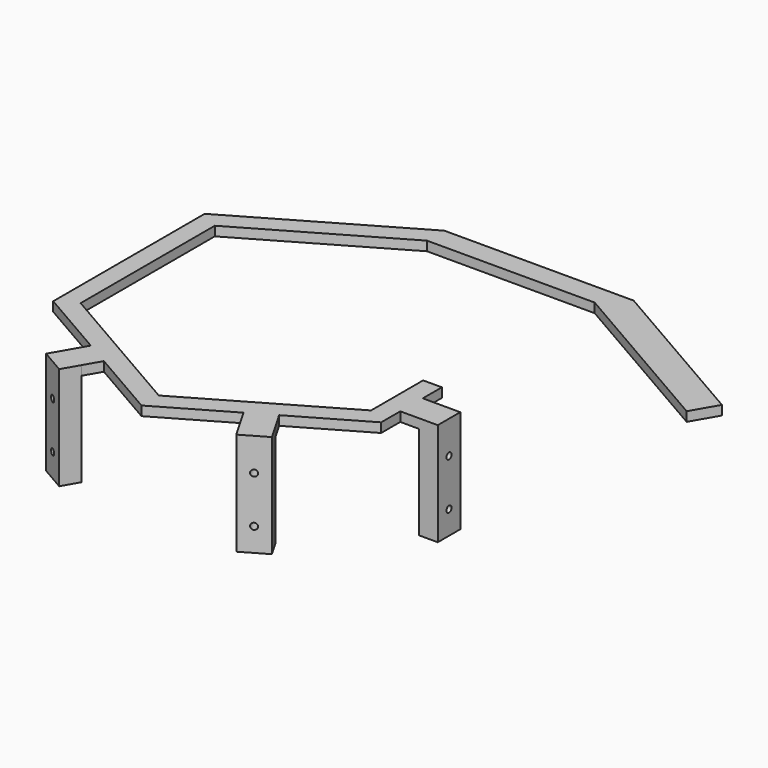
from build123d import *

# Parameters (mm, degrees)
PAD_DEPTH      = 5
SKETCH001_W    = 15
SKETCH001_H    = 5
PAD001_DEPTH   = 10
SKETCH002_W    = 15
SKETCH002_H    = 5
PAD002_DEPTH   = 10
SKETCH003_W    = 15
SKETCH003_H    = 5
PAD003_DEPTH   = 10
SKETCH004_W    = 15
SKETCH004_H    = 55
PAD004_DEPTH   = 10
SKETCH005_R    = 1.7
HOLE_DEPTH     = 25
HOLE_TIPS_R    = 1.7
SKETCH006_W    = 15
SKETCH006_H    = 55
PAD005_DEPTH   = 10
SKETCH007_R    = 1.7
HOLE001_DEPTH  = 25
HOLE001_TIPS_R = 1.7
SKETCH008_W    = 15
SKETCH008_H    = 55
PAD006_DEPTH   = 10
SKETCH009_R    = 1.7
HOLE002_DEPTH  = 25
HOLE002_TIPS_R = 1.7


with BuildPart() as part:
    # Sketch → Pad (new body)
    with BuildSketch(Plane.XY):
        Polygon((77.465972, -44.725), (77.465972, -9.995), (87.465972, -9.995), (87.465972, -50.494492), (0, -100.995), (-87.465972, -50.494492), (-87.465972, 50.494492), (0, 100.995), (100.998008, 100.995), (188.464849, 50.495996), (180.578715, 36.836812), (89.45, 89.45), (0, 89.45), (-77.465972, 44.725), (-77.465972, -44.725), (0, -89.45), align=None)
    extrude(amount=PAD_DEPTH)

    # Sketch001 (on Face12 of Pad) → Pad001 (join)
    with BuildSketch(Plane.YZ.offset(87.465972)):
        with Locations((-30.244746, 2.5)):
            Rectangle(SKETCH001_W, SKETCH001_H)
    extrude(amount=PAD001_DEPTH)

    # Sketch002 (on Face19 of Pad001) → Pad002 (join)
    with BuildSketch(Plane(origin=(43.732986, -75.744746, 0), x_dir=(0.866017, 0.500015, 0), z_dir=(0.500015, -0.866017, 0))):
        with Locations((0, 2.5)):
            Rectangle(SKETCH002_W, SKETCH002_H)
    extrude(amount=PAD002_DEPTH)

    # Sketch003 (on Face22 of Pad002) → Pad003 (join)
    with BuildSketch(Plane(origin=(-43.732986, -75.744746, 0), x_dir=(0.866017, -0.500015, 0), z_dir=(-0.500015, -0.866017, 0))):
        with Locations((0, 2.5)):
            Rectangle(SKETCH003_W, SKETCH003_H)
    extrude(amount=PAD003_DEPTH)

    # Sketch004 (on Face30 of Pad003) → Pad004 (join)
    with BuildSketch(Plane.YZ.offset(97.465972)):
        with Locations((-30.244746, -22.5)):
            Rectangle(SKETCH004_W, SKETCH004_H)
    extrude(amount=PAD004_DEPTH)

    # Sketch005 (on Face41 of Pad004) → Hole (cut)
    with BuildSketch(Plane.YZ.offset(107.465972)):
        with Locations((-30.244746, -37.5)):
            Circle(SKETCH005_R)
        with Locations((-30.244746, -12.5)):
            Circle(SKETCH005_R)
    extrude(amount=-HOLE_DEPTH, mode=Mode.SUBTRACT)

    # Hole tips → Hole tip 1 section 0
    with BuildSketch(Plane.YZ.offset(82.465972), mode=Mode.PRIVATE) as hole_tip_1_s0:
        with Locations((-30.244746, -37.5)):
            Circle(HOLE_TIPS_R)
    loft([hole_tip_1_s0.sketch, Vertex(81.444509, -30.244746, -37.5)], mode=Mode.SUBTRACT)

    # Hole tips → Hole tip 2 section 0
    with BuildSketch(Plane.YZ.offset(82.465972), mode=Mode.PRIVATE) as hole_tip_2_s0:
        with Locations((-30.244746, -12.5)):
            Circle(HOLE_TIPS_R)
    loft([hole_tip_2_s0.sketch, Vertex(81.444509, -30.244746, -12.5)], mode=Mode.SUBTRACT)

    # Sketch006 (on Face33 of Hole) → Pad005 (join)
    with BuildSketch(Plane(origin=(48.733135, -84.404914, 0), x_dir=(0.866017, 0.500015, 0), z_dir=(0.500015, -0.866017, 0))):
        with Locations((0, -22.5)):
            Rectangle(SKETCH006_W, SKETCH006_H)
    extrude(amount=PAD005_DEPTH)

    # Sketch007 (on Face48 of Pad005) → Hole001 (cut)
    with BuildSketch(Plane(origin=(53.733284, -93.065082, 0), x_dir=(0.866017, 0.500015, 0), z_dir=(0.500015, -0.866017, 0))):
        with Locations((0, -37.5)):
            Circle(SKETCH007_R)
        with Locations((0, -12.5)):
            Circle(SKETCH007_R)
    extrude(amount=-HOLE001_DEPTH, mode=Mode.SUBTRACT)

    # Hole001 tips → Hole001 tip 1 section 0
    with BuildSketch(Plane(origin=(41.232912, -71.414662, 0), x_dir=(0.866017, 0.500015, 0), z_dir=(0.500015, -0.866017, 0)), mode=Mode.PRIVATE) as hole001_tip_1_s0:
        with Locations((0, -37.5)):
            Circle(HOLE001_TIPS_R)
    loft([hole001_tip_1_s0.sketch, Vertex(40.722165, -70.530058, -37.5)], mode=Mode.SUBTRACT)

    # Hole001 tips → Hole001 tip 2 section 0
    with BuildSketch(Plane(origin=(41.232912, -71.414662, 0), x_dir=(0.866017, 0.500015, 0), z_dir=(0.500015, -0.866017, 0)), mode=Mode.PRIVATE) as hole001_tip_2_s0:
        with Locations((0, -12.5)):
            Circle(HOLE001_TIPS_R)
    loft([hole001_tip_2_s0.sketch, Vertex(40.722165, -70.530058, -12.5)], mode=Mode.SUBTRACT)

    # Sketch008 (on Face36 of Hole001) → Pad006 (join)
    with BuildSketch(Plane(origin=(-48.733135, -84.404914, 0), x_dir=(0.866017, -0.500015, 0), z_dir=(-0.500015, -0.866017, 0))):
        with Locations((0, -22.5)):
            Rectangle(SKETCH008_W, SKETCH008_H)
    extrude(amount=PAD006_DEPTH)

    # Sketch009 (on Face55 of Pad006) → Hole002 (cut)
    with BuildSketch(Plane(origin=(-53.733284, -93.065082, 0), x_dir=(0.866017, -0.500015, 0), z_dir=(-0.500015, -0.866017, 0))):
        with Locations((0, -12.5)):
            Circle(SKETCH009_R)
        with Locations((0, -37.5)):
            Circle(SKETCH009_R)
    extrude(amount=-HOLE002_DEPTH, mode=Mode.SUBTRACT)

    # Hole002 tips → Hole002 tip 1 section 0
    with BuildSketch(Plane(origin=(-41.232912, -71.414662, 0), x_dir=(0.866017, -0.500015, 0), z_dir=(-0.500015, -0.866017, 0)), mode=Mode.PRIVATE) as hole002_tip_1_s0:
        with Locations((0, -12.5)):
            Circle(HOLE002_TIPS_R)
    loft([hole002_tip_1_s0.sketch, Vertex(-40.722165, -70.530058, -12.5)], mode=Mode.SUBTRACT)

    # Hole002 tips → Hole002 tip 2 section 0
    with BuildSketch(Plane(origin=(-41.232912, -71.414662, 0), x_dir=(0.866017, -0.500015, 0), z_dir=(-0.500015, -0.866017, 0)), mode=Mode.PRIVATE) as hole002_tip_2_s0:
        with Locations((0, -37.5)):
            Circle(HOLE002_TIPS_R)
    loft([hole002_tip_2_s0.sketch, Vertex(-40.722165, -70.530058, -37.5)], mode=Mode.SUBTRACT)


solid = part.part
